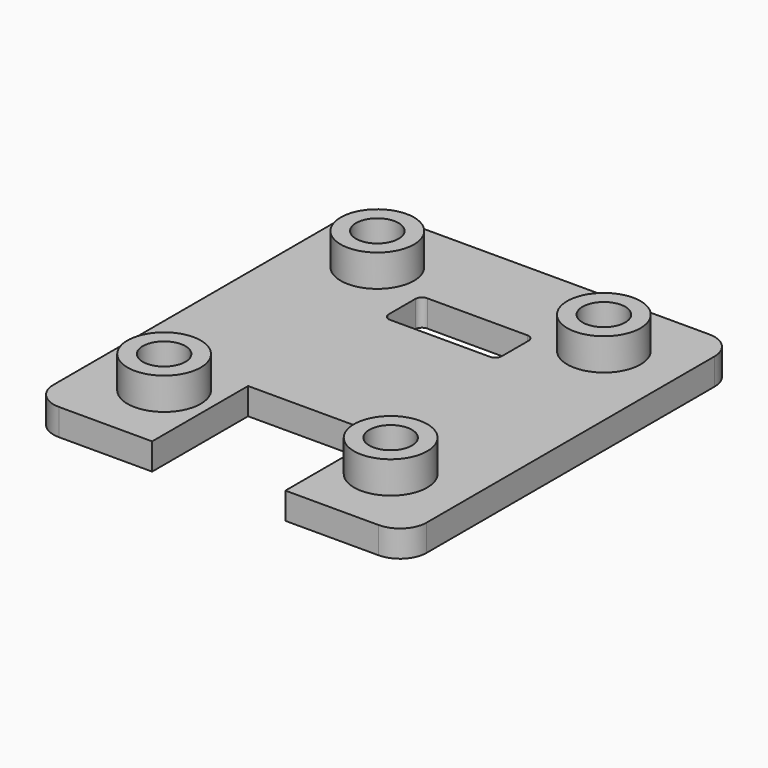
from build123d import *

# Parameters (mm, degrees)
SKETCH004_W     = 28
SKETCH004_H     = 31
PAD001_DEPTH    = 2
SKETCH005_R     = 2.75
PAD002_DEPTH    = 2.4
SKETCH006_R     = 1.6
HOLE001_DEPTH   = 25
SKETCH_W        = 10
SKETCH_H        = 9
POCKET_DEPTH    = 5
FILLET_R        = 2
SKETCH007_W     = 8.5
SKETCH007_H     = 3.5
POCKET001_DEPTH = 2
FILLET001_R     = 0.5


with BuildPart() as part:
    # Sketch004 → Pad001 (new body)
    with BuildSketch(Plane.XY):
        with Locations((-14, -15.5)):
            Rectangle(SKETCH004_W, SKETCH004_H)
    extrude(amount=PAD001_DEPTH)

    # Sketch005 (on Face6 of Pad001) → Pad002 (join)
    with BuildSketch(Plane.XY.offset(2)):
        with Locations((-22.5, -5.5)):
            Circle(SKETCH005_R)
        with Locations((-5.5, -5.5)):
            Circle(SKETCH005_R)
        with Locations((-22.5, -25.5)):
            Circle(SKETCH005_R)
        with Locations((-5.5, -25.5)):
            Circle(SKETCH005_R)
    extrude(amount=PAD002_DEPTH)

    # Sketch006 (on Face4 of Pad002) → Hole001 (cut)
    with BuildSketch(Plane(origin=(0, 0, 0), x_dir=(1, 0, 0), z_dir=(0, 0, -1))):
        with Locations((-22.5, 25.5)):
            Circle(SKETCH006_R)
        with Locations((-5.5, 25.5)):
            Circle(SKETCH006_R)
        with Locations((-5.5, 5.5)):
            Circle(SKETCH006_R)
        with Locations((-22.5, 5.5)):
            Circle(SKETCH006_R)
    extrude(amount=-HOLE001_DEPTH, mode=Mode.SUBTRACT)

    # Sketch (on Face5 of Hole001) → Pocket (cut)
    with BuildSketch(Plane.XY.offset(2)):
        with Locations((-14, -26.5)):
            Rectangle(SKETCH_W, SKETCH_H)
    extrude(amount=-POCKET_DEPTH, mode=Mode.SUBTRACT)

    # Fillet
    fillet_edges = [part.edges().sort_by_distance(p)[0] for p in [
        (0, 0, 1),
        (0, -31, 1),
        (-28, 0, 1),
        (-28, -31, 1),
    ]]
    fillet(fillet_edges, radius=FILLET_R)

    # Sketch007 (on Face5 of Fillet) → Pocket001 (cut)
    with BuildSketch(Plane.XY.offset(2)):
        with Locations((-14, -8.5)):
            Rectangle(SKETCH007_W, SKETCH007_H)
    extrude(amount=-POCKET001_DEPTH, mode=Mode.SUBTRACT)

    # Fillet001
    fillet001_edges = [part.edges().sort_by_distance(p)[0] for p in [
        (-9.75, -6.75, 1),
        (-9.75, -10.25, 1),
        (-18.25, -10.25, 1),
        (-18.25, -6.75, 1),
    ]]
    fillet(fillet001_edges, radius=FILLET001_R)


solid = part.part
